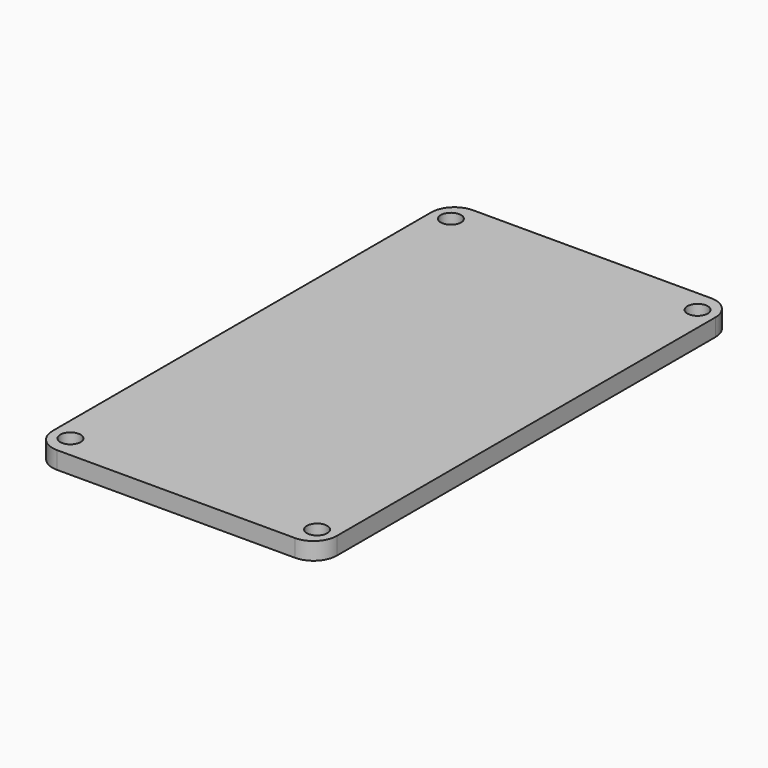
from build123d import *

# Parameters (mm, degrees)
F0_W     = 311.15
F0_H     = 568.96
F1_DEPTH = 19.05
F3_R     = 25.4
F2_R     = 11.1125
F4_DEPTH = 19.051


with BuildPart() as f1:
    # F0 (on Top) → F1 (new body)
    with BuildSketch(Plane.XY):
        Rectangle(F0_W, F0_H)
    extrude(amount=F1_DEPTH)

    # F3
    f3_edges = [f1.edges().sort_by_distance(p)[0] for p in [
        (155.575, -284.48, 9.525),
        (-155.575, -284.48, 9.525),
        (-155.575, 284.48, 9.525),
        (155.575, 284.48, 9.525),
    ]]
    fillet(f3_edges, radius=F3_R)

    # F2 (on face) → F4 (cut, through all)
    with BuildSketch(Plane.XY.offset(19.05)):
        with Locations((-135, 260.35)):
            Circle(F2_R)
        with Locations((135, 260.35)):
            Circle(F2_R)
        with Locations((135, -260.35)):
            Circle(F2_R)
        with Locations((-135, -260.35)):
            Circle(F2_R)
    extrude(amount=-F4_DEPTH, mode=Mode.SUBTRACT)


solid = f1.part
